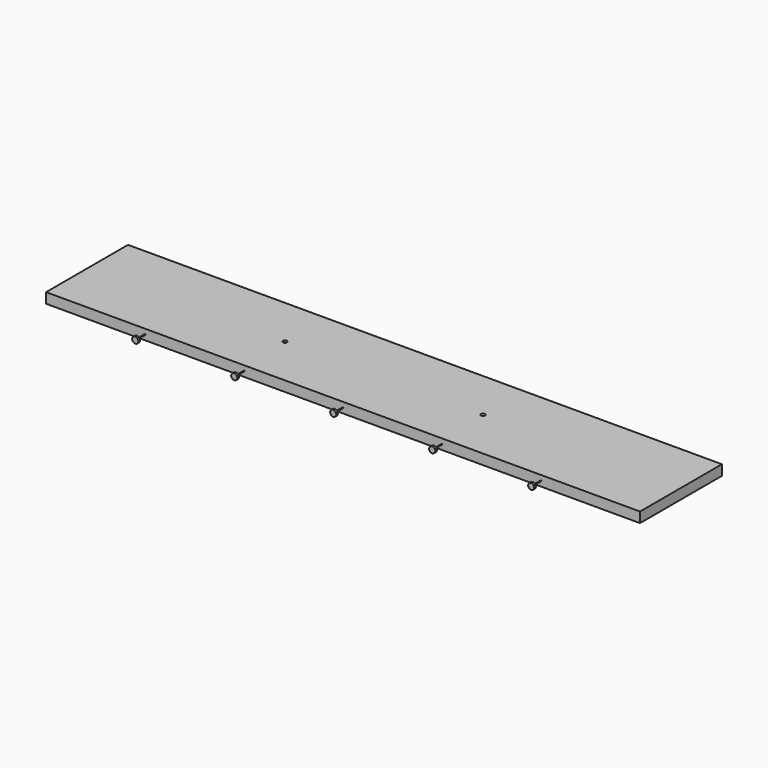
from build123d import *

# Parameters (mm, degrees)
F0_W     = 1450
F0_H     = 250
F1_DEPTH = 25
F2_R     = 1
F3_DEPTH = 25
F5_R     = 7.5
F6_DEPTH = 5
F7_R     = 5
F8_DEPTH = 5


with BuildPart() as f1:
    # F0 (on Top) → F1 (new body)
    with BuildSketch(Plane.XY):
        with Locations((0, -236.8958477461)):
            Rectangle(F0_W, F0_H)
    extrude(amount=F1_DEPTH)

    # F2 (on face) → F3 (join)
    with BuildSketch(Plane.XZ.offset(361.8958477461)):
        with Locations((-483.3333333333, 12.5)):
            Circle(F2_R)
        with Locations((-241.6666666667, 12.5)):
            Circle(F2_R)
        with Locations((0, 12.5)):
            Circle(F2_R)
        with Locations((241.6666666667, 12.5)):
            Circle(F2_R)
        with Locations((483.3333333333, 12.5)):
            Circle(F2_R)
    extrude(amount=F3_DEPTH)

    # F5 (on offset) → F6 (join)
    with BuildSketch(Plane.XZ.offset(386.8958477461)):
        with Locations((-483.3333333333, 12.5)):
            Circle(F5_R)
        with Locations((-241.6666666667, 12.5)):
            Circle(F5_R)
        with Locations((0, 12.5)):
            Circle(F5_R)
        with Locations((241.6666666667, 12.5)):
            Circle(F5_R)
        with Locations((483.3333333333, 12.5)):
            Circle(F5_R)
    extrude(amount=F6_DEPTH)

    # F7 (on face) → F8 (cut)
    with BuildSketch(Plane.XY.offset(25)):
        with Locations((-241.6666666667, -236.8958477461)):
            Circle(F7_R)
        with Locations((241.6666666667, -236.8958477461)):
            Circle(F7_R)
    extrude(amount=-F8_DEPTH, mode=Mode.SUBTRACT)


solid = f1.part
